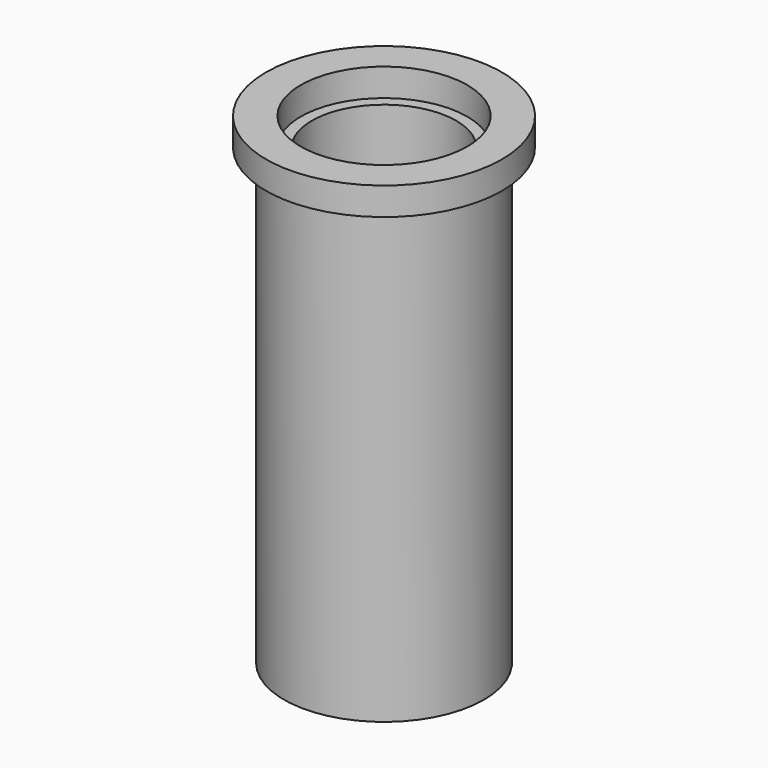
from build123d import *

# Parameters (mm, degrees)
SKETCH_R      = 3.6
SKETCH_R_2    = 2.6
PAD_DEPTH     = 16.35
SKETCH001_R   = 4.25
SKETCH001_R_2 = 3
PAD001_DEPTH  = 1


with BuildPart() as part:
    # Sketch → Pad (new body)
    with BuildSketch(Plane.XY):
        Circle(SKETCH_R)
        Circle(SKETCH_R_2, mode=Mode.SUBTRACT)
    extrude(amount=PAD_DEPTH)

    # Sketch001 → Pad001 (new body)
    with BuildSketch(Plane.XY.offset(16.35)):
        Circle(SKETCH001_R)
        Circle(SKETCH001_R_2, mode=Mode.SUBTRACT)
    extrude(amount=PAD001_DEPTH)


solid = part.part
